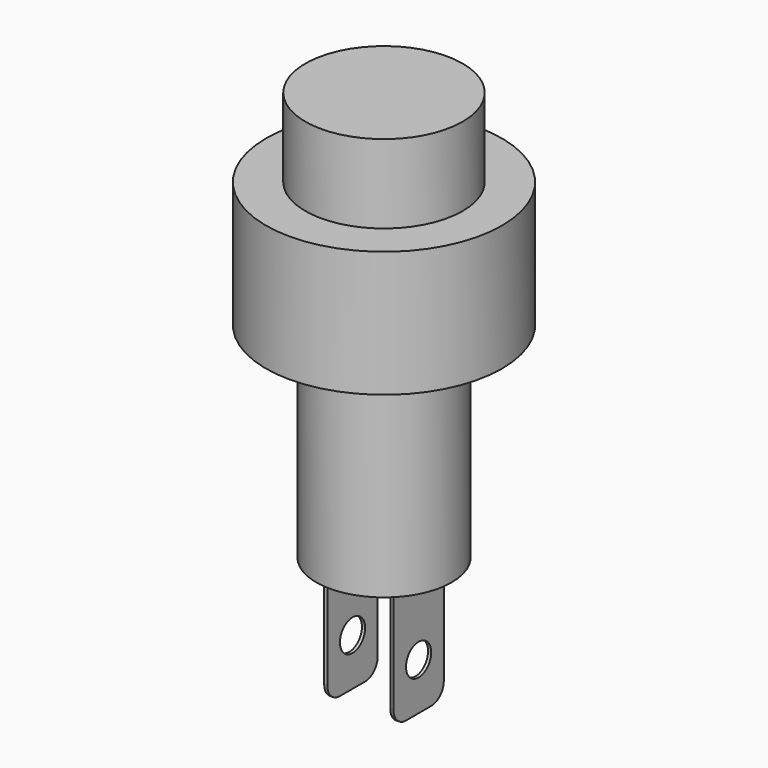
from build123d import *

# Parameters (mm, degrees)
SKETCH_R     = 7.5
PAD_DEPTH    = 8
SKETCH001_R  = 5
PAD001_DEPTH = 5
SKETCH002_R  = 4.3
PAD002_DEPTH = 13
SKETCH003_W  = 0.2
SKETCH003_H  = 4
PAD003_DEPTH = 8
SKETCH004_R  = 1
POCKET_DEPTH = 9.701
FILLET_R     = 1


with BuildPart() as part:
    # Sketch (on XY_Plane of Origin) → Pad (new body)
    with BuildSketch(Plane.XY):
        Circle(SKETCH_R)
    extrude(amount=PAD_DEPTH)

    # Sketch001 (on Face3 of Pad) → Pad001 (join)
    with BuildSketch(Plane.XY.offset(8)):
        Circle(SKETCH001_R)
    extrude(amount=PAD001_DEPTH)

    # Sketch002 (on Face2 of Pad001) → Pad002 (join)
    with BuildSketch(Plane(origin=(0, 0, 0), x_dir=(1, 0, 0), z_dir=(0, 0, -1))):
        Circle(SKETCH002_R)
    extrude(amount=PAD002_DEPTH)

    # Sketch003 (on Face6 of Pad002) → Pad003 (join)
    with BuildSketch(Plane(origin=(0, 0, -13), x_dir=(1, 0, 0), z_dir=(0, 0, -1))):
        with Locations((-2.1, 0)):
            Rectangle(SKETCH003_W, SKETCH003_H)
        with Locations((2.1, 0)):
            Rectangle(SKETCH003_W, SKETCH003_H)
    extrude(amount=PAD003_DEPTH)

    # Sketch004 (on Face9 of Pad003) → Pocket (cut, through all)
    with BuildSketch(Plane.YZ.offset(2.2)):
        with Locations((0, -18)):
            Circle(SKETCH004_R)
    extrude(amount=-POCKET_DEPTH, mode=Mode.SUBTRACT)

    # Fillet
    fillet_edges = [part.edges().sort_by_distance(p)[0] for p in [
        (-2.1, 2, -21),
        (2.1, 2, -21),
        (-2.1, -2, -21),
        (2.1, -2, -21),
    ]]
    fillet(fillet_edges, radius=FILLET_R)


solid = part.part
